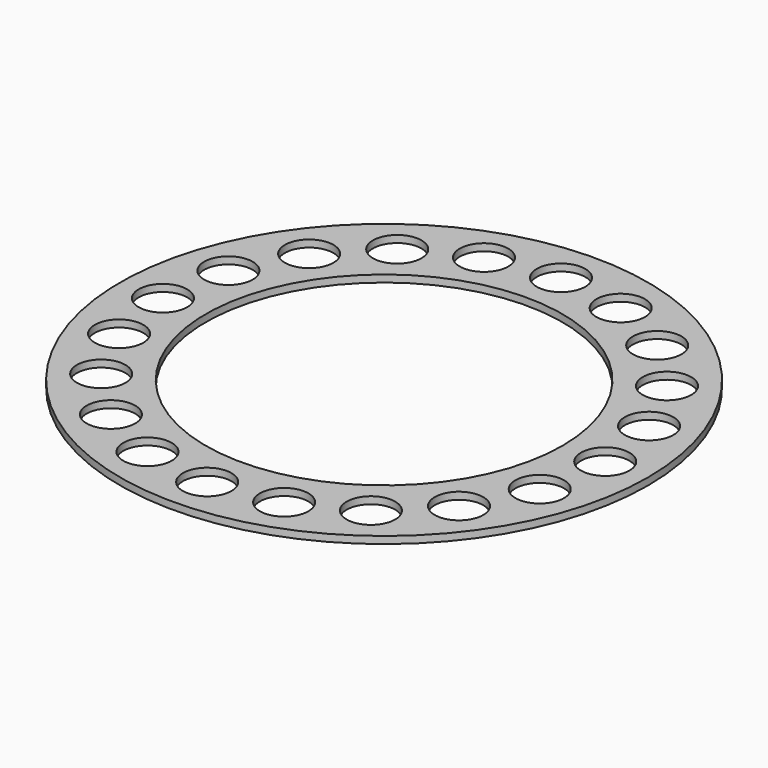
from build123d import *

# Parameters (mm, degrees)
F0_R     = 37
F0_R_2   = 3.4
F0_R_3   = 25
F1_DEPTH = 1


with BuildPart() as f1:
    # F0 (on Top) → F1 (new body)
    with BuildSketch(Plane.XY):
        Circle(F0_R)
        with Locations((-9.579527, -29.482752)):
            Circle(F0_R_2, mode=Mode.SUBTRACT)
        with Locations((-18.221343, -25.079527)):
            Circle(F0_R_2, mode=Mode.SUBTRACT)
        with Locations((-29.482752, -9.579527)):
            Circle(F0_R_2, mode=Mode.SUBTRACT)
        with Locations((-25.079527, -18.221343)):
            Circle(F0_R_2, mode=Mode.SUBTRACT)
        with Locations((0, -31)):
            Circle(F0_R_2, mode=Mode.SUBTRACT)
        with Locations((9.579527, -29.482752)):
            Circle(F0_R_2, mode=Mode.SUBTRACT)
        with Locations((18.221343, -25.079527)):
            Circle(F0_R_2, mode=Mode.SUBTRACT)
        with Locations((25.079527, -18.221343)):
            Circle(F0_R_2, mode=Mode.SUBTRACT)
        with Locations((29.482752, -9.579527)):
            Circle(F0_R_2, mode=Mode.SUBTRACT)
        with Locations((-31, 0)):
            Circle(F0_R_2, mode=Mode.SUBTRACT)
        with Locations((-29.482752, 9.579527)):
            Circle(F0_R_2, mode=Mode.SUBTRACT)
        with Locations((-25.079527, 18.221343)):
            Circle(F0_R_2, mode=Mode.SUBTRACT)
        with Locations((-18.221343, 25.079527)):
            Circle(F0_R_2, mode=Mode.SUBTRACT)
        with Locations((-9.579527, 29.482752)):
            Circle(F0_R_2, mode=Mode.SUBTRACT)
        Circle(F0_R_3, mode=Mode.SUBTRACT)
        with Locations((31, 0)):
            Circle(F0_R_2, mode=Mode.SUBTRACT)
        with Locations((25.079527, 18.221343)):
            Circle(F0_R_2, mode=Mode.SUBTRACT)
        with Locations((29.482752, 9.579527)):
            Circle(F0_R_2, mode=Mode.SUBTRACT)
        with Locations((18.221343, 25.079527)):
            Circle(F0_R_2, mode=Mode.SUBTRACT)
        with Locations((0, 31)):
            Circle(F0_R_2, mode=Mode.SUBTRACT)
        with Locations((9.579527, 29.482752)):
            Circle(F0_R_2, mode=Mode.SUBTRACT)
    extrude(amount=F1_DEPTH)


solid = f1.part
